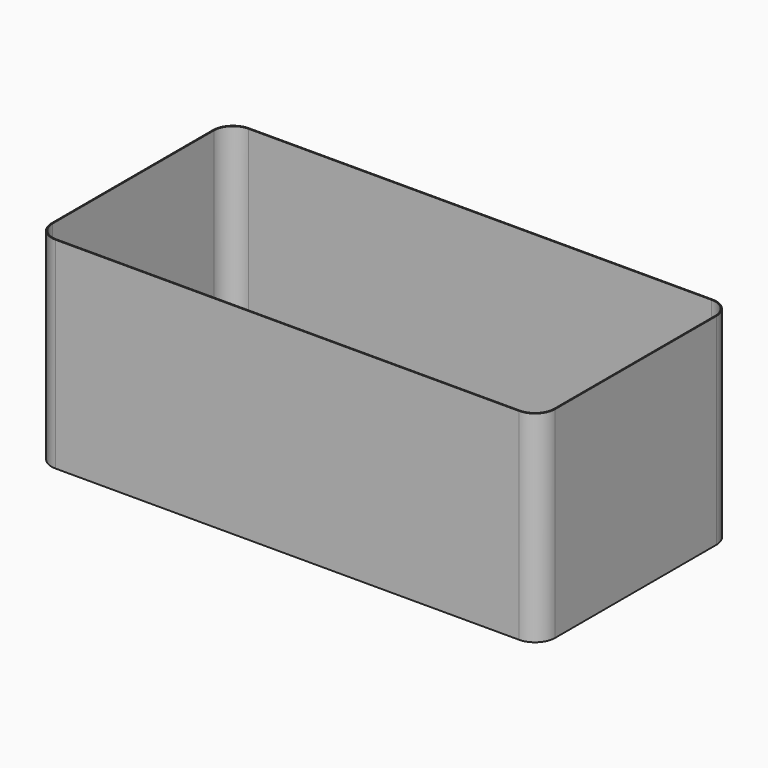
from build123d import *

# Parameters (mm, degrees)
F0_W     = 250
F0_H     = 120
F1_DEPTH = 100
F2_R     = 10
F3_T     = -0.5
F4_R     = 3


with BuildPart() as f1:
    # F0 (on Top) → F1 (new body)
    with BuildSketch(Plane.XY):
        with Locations((125, 60)):
            Rectangle(F0_W, F0_H)
    extrude(amount=F1_DEPTH)

    # F2
    f2_edges = [f1.edges().sort_by_distance(p)[0] for p in [
        (0, 0, 50),
        (250, 0, 50),
        (250, 120, 50),
        (0, 120, 50),
    ]]
    fillet(f2_edges, radius=F2_R)

    # F3
    f3_openings = [f1.faces().sort_by_distance(p)[0] for p in [
        (125, 60, 100),
    ]]
    offset(amount=F3_T, openings=f3_openings)

    # F4
    f4_edges = [f1.edges().sort_by_distance(p)[0] for p in [
        (0.5, 60, 0.5),
        (3.282486, 3.282486, 0.5),
        (125, 0.5, 0.5),
        (246.717514, 3.282486, 0.5),
        (249.5, 60, 0.5),
        (246.717514, 116.717514, 0.5),
        (125, 119.5, 0.5),
        (3.282486, 116.717514, 0.5),
    ]]
    fillet(f4_edges, radius=F4_R)


solid = f1.part
